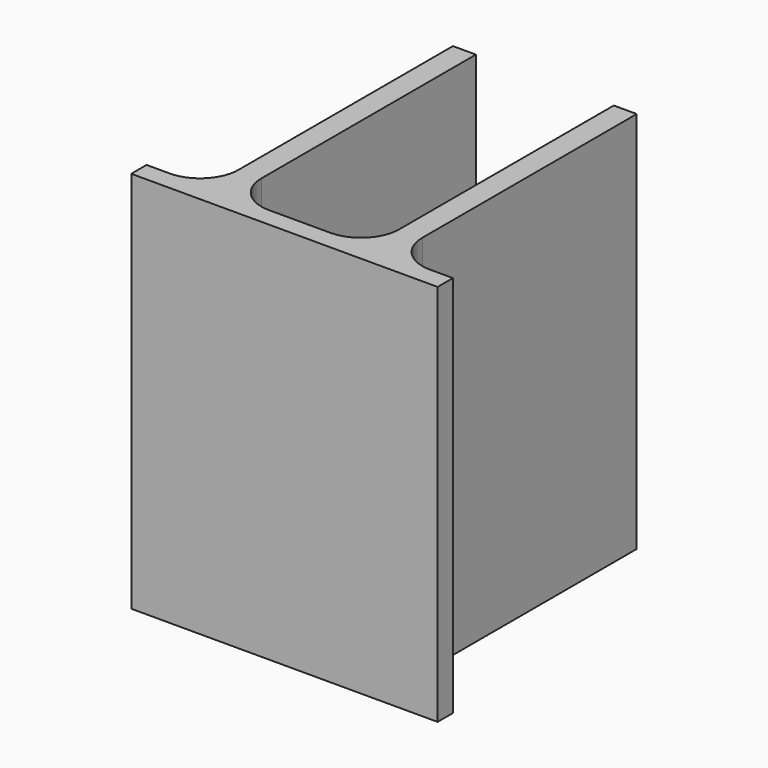
from build123d import *

# Parameters (mm, degrees)
F0_W     = 8
F0_H     = 2.5
F0_W_2   = 3
F0_H_2   = 40
F1_DEPTH = 50
F2_R     = 5


with BuildPart() as f1:
    # F0 (on Top) → F1 (new body)
    with BuildSketch(Plane.XY):
        with Locations((16, 0)):
            Rectangle(F0_W, F0_H)
        Polygon((-12, 1.25), (-12, -1.25), (12, -1.25), (12, 1.25), (9, 1.25), (-9, 1.25), align=None)
        with Locations((-16, 0)):
            Rectangle(F0_W, F0_H)
        with Locations((10.5, 21.25)):
            Rectangle(F0_W_2, F0_H_2)
        with Locations((-10.5, 21.25)):
            Rectangle(F0_W_2, F0_H_2)
    extrude(amount=F1_DEPTH)

    # F2
    f2_edges = [f1.edges().sort_by_distance(p)[0] for p in [
        (12, 1.25, 25),
        (-12, 1.25, 25),
        (-9, 1.25, 25),
        (9, 1.25, 25),
    ]]
    fillet(f2_edges, radius=F2_R)


solid = f1.part
